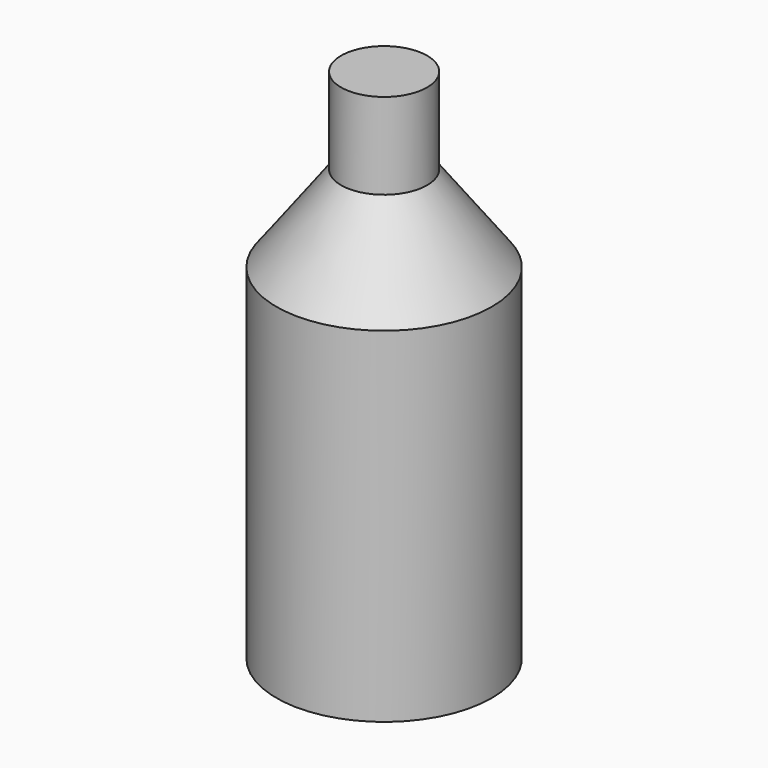
from build123d import *

# Parameters (mm, degrees)
F4_R = 12.7
F6_R = 12.7
F0_R = 31.75
F2_R = 31.75


with BuildPart() as f7:
    # F4 (on offset) → F7 section 0
    with BuildSketch(Plane.XY.offset(127)):
        Circle(F4_R)
    # F6 (on offset) → F7 section 1
    with BuildSketch(Plane.XY.offset(152.4)):
        Circle(F6_R)
    loft()


with BuildPart() as f8:
    # F0 (on Top) → F8 section 0
    with BuildSketch(Plane.XY):
        Circle(F0_R)
    # F2 (on offset) → F8 section 1
    with BuildSketch(Plane.XY.offset(101.6)):
        Circle(F2_R)
    loft()


with BuildPart() as f9:
    # F2 (on offset) → F9 section 0
    with BuildSketch(Plane.XY.offset(101.6)):
        Circle(F2_R)
    # F4 (on offset) → F9 section 1
    with BuildSketch(Plane.XY.offset(127)):
        Circle(F4_R)
    loft()


solid = Compound([f7.part, f8.part, f9.part])
